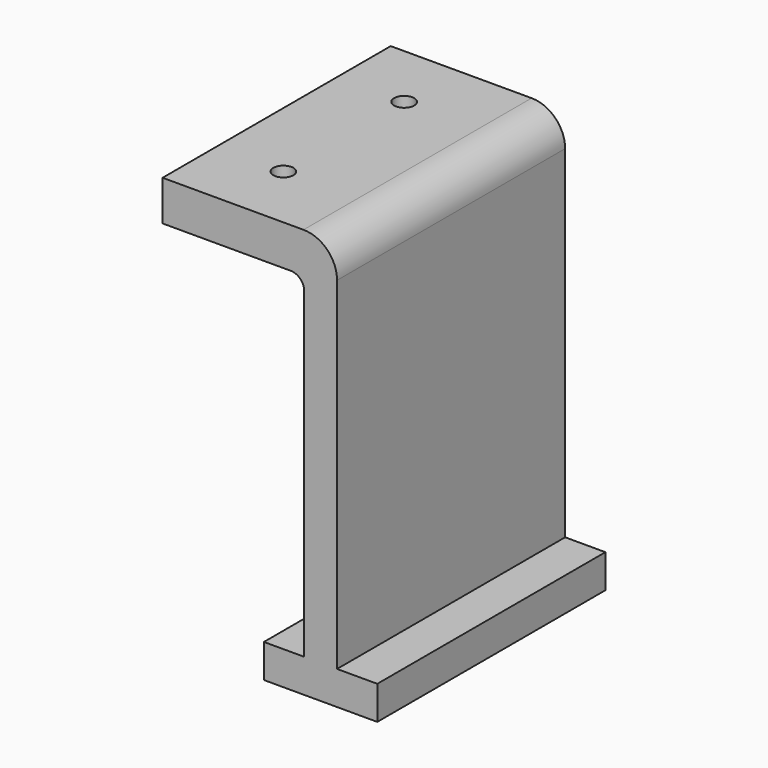
from build123d import *

# Parameters (mm, degrees)
F1_DEPTH = 53.975
F2_R     = 1.905
F3_DEPTH = 25.4


with BuildPart() as f1:
    # F0 (on Front) → F1 (new body)
    with BuildSketch(Plane.XZ):
        with BuildLine():
            Line((0, 7.62), (0, 0))
            Line((0, 0), (24.257, 0))
            ThreePointArc((24.257, 0), (26.053051, -0.743949), (26.797, -2.54))
            Line((26.797, -2.54), (26.797, -63.5))
            Line((26.797, -63.5), (19.177, -63.5))
            Line((19.177, -63.5), (19.177, -69.85))
            Line((19.177, -69.85), (40.64, -69.85))
            Line((40.64, -69.85), (40.64, -63.5))
            Line((40.64, -63.5), (33.02, -63.5))
            Line((33.02, -63.5), (33.02, 1.27))
            ThreePointArc((33.02, 1.27), (31.160128, 5.760128), (26.67, 7.62))
            Line((26.67, 7.62), (0, 7.62))
        make_face()
    extrude(amount=F1_DEPTH)

    # F2 (on face) → F3 (cut)
    with BuildSketch(Plane.XY.offset(7.62)):
        with Locations((12.7, -41.275)):
            Circle(F2_R)
        with Locations((12.7, -12.7)):
            Circle(F2_R)
    extrude(amount=-F3_DEPTH, mode=Mode.SUBTRACT)


solid = f1.part
